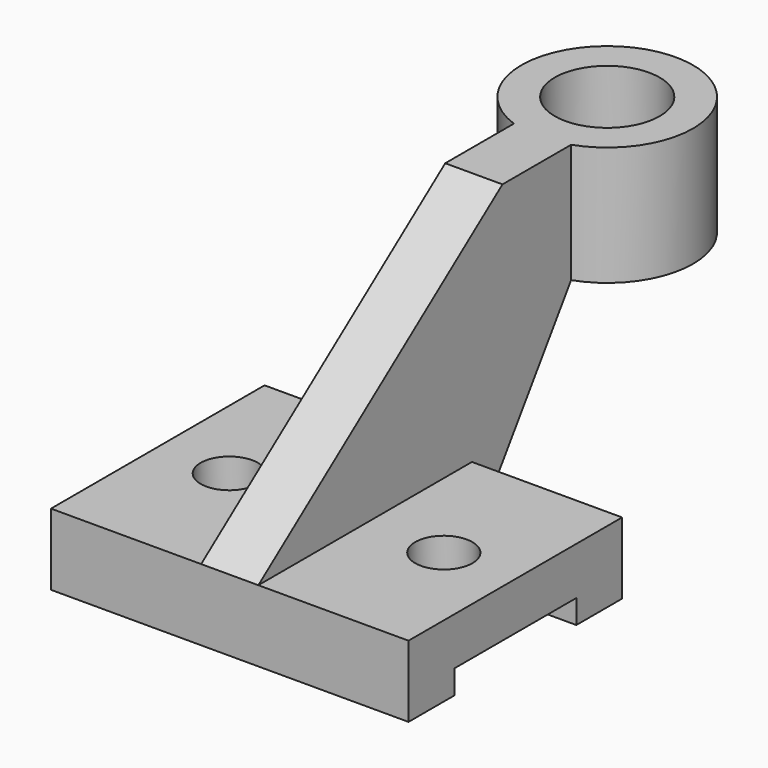
from build123d import *

# Parameters (mm, degrees)
SKETCH_W        = 75
SKETCH_H        = 56
PAD_DEPTH       = 15
SKETCH001_R     = 6
POCKET_DEPTH    = 15.001
SKETCH002_W     = 111.933372
SKETCH002_H     = 32
POCKET001_DEPTH = 5
PAD001_DEPTH    = 6
SKETCH004_R     = 18
PAD002_DEPTH    = 25
SKETCH005_R     = 11
POCKET002_DEPTH = 63.001


with BuildPart() as pocket001:
    # Sketch → Pad (new body)
    with BuildSketch(Plane.XY):
        Rectangle(SKETCH_W, SKETCH_H)
    extrude(amount=PAD_DEPTH)

    # Sketch001 → Pocket (cut, through all)
    with BuildSketch(Plane.XY.offset(15)):
        with Locations((-22.5, 0)):
            Circle(SKETCH001_R)
        with Locations((22.5, 0)):
            Circle(SKETCH001_R)
    extrude(amount=-POCKET_DEPTH, mode=Mode.SUBTRACT)

    # Sketch002 → Pocket001 (cut)
    with BuildSketch(Plane(origin=(0, 0, 0), x_dir=(1, 0, 0), z_dir=(0, 0, -1))):
        with Locations((5.213337, 0)):
            Rectangle(SKETCH002_W, SKETCH002_H)
    extrude(amount=-POCKET001_DEPTH, mode=Mode.SUBTRACT)


with BuildPart() as fusion:
    # Sketch003 → Pad001 (new body, symmetric)
    with BuildSketch(Plane.YZ):
        Polygon((-28, 0), (28, 0), (54, 38), (54, 63), (36, 63), (-28, 15), align=None)
    extrude(amount=PAD001_DEPTH, both=True)

    # Sketch004 → Pad002 (new body)
    with BuildSketch(Plane(origin=(0, 0, 63), x_dir=(0, -1, 0), z_dir=(0, 0, 1))):
        with Locations((-70.970563, 0)):
            Circle(SKETCH004_R)
    extrude(amount=-PAD002_DEPTH)

    # Sketch005 → Pocket002 (cut, through all)
    with BuildSketch(Plane(origin=(0, 0, 63), x_dir=(0, -1, 0), z_dir=(0, 0, 1))):
        with Locations((-70.970563, 0)):
            Circle(SKETCH005_R)
    extrude(amount=-POCKET002_DEPTH, mode=Mode.SUBTRACT)

    # Fusion: union Pocket001
    add(pocket001.part)


solid = fusion.part
